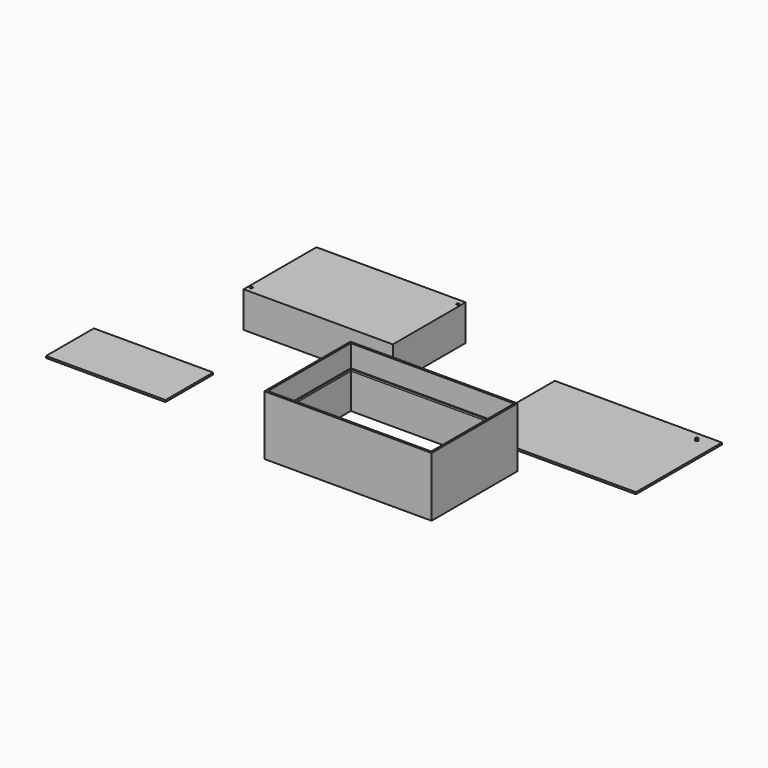
from build123d import *

# Parameters (mm, degrees)
F1_DEPTH  = 19.05
F2_R      = 1.5
F3_DEPTH  = 4
F2_W      = 177.8
F2_H      = 114.3
F4_DEPTH  = 2
F6_W      = 177.8
F6_H      = 114.3
F6_W_2    = 173.8
F6_H_2    = 110.3
F7_DEPTH  = 63.5
F10_W     = 173.8
F10_H     = 2
F12_DEPTH = 1
F11_W     = 110.3
F11_H     = 2
F13_DEPTH = 1
F9_W      = 110.3
F9_H      = 2
F14_DEPTH = 1
F8_W      = 173.8
F8_H      = 2
F15_DEPTH = 1
F5_W      = 127
F5_H      = 63.5
F16_DEPTH = 2


with BuildPart() as f1:
    # F0 (on Top) → F1 (new body, symmetric)
    with BuildSketch(Plane.XY):
        with BuildLine():
            Line((-79.375, -48.41875), (79.375, -48.41875))
            Line((79.375, -48.41875), (79.375, 40.41875))
            Line((79.375, 40.41875), (73.375, 40.41875))
            Line((73.375, 40.41875), (73.375, 43.41875))
            Line((73.375, 43.41875), (76.1563882031, 43.41875))
            ThreePointArc((76.1563882031, 43.41875), (76.375, 43.4347658753), (76.5936117969, 43.41875))
            Line((76.5936117969, 43.41875), (79.375, 43.41875))
            Line((79.375, 43.41875), (79.375, 48.41875))
            Line((79.375, 48.41875), (-79.375, 48.41875))
            Line((-79.375, 48.41875), (-79.375, -40.41875))
            Line((-79.375, -40.41875), (-76.375, -40.41875))
            Line((-76.375, -40.41875), (-73.375, -40.41875))
            Line((-73.375, -40.41875), (-73.375, -43.41875))
            Line((-73.375, -43.41875), (-76.375, -43.41875))
            Line((-76.375, -43.41875), (-79.375, -43.41875))
            Line((-79.375, -43.41875), (-79.375, -48.41875))
        make_face()
        with BuildLine():
            ThreePointArc((-74.875, -41.91875), (-75.3143398282, -42.9794101718), (-76.375, -43.41875))
            Line((-76.375, -43.41875), (-73.375, -43.41875))
            Line((-73.375, -43.41875), (-73.375, -40.41875))
            Line((-73.375, -40.41875), (-76.375, -40.41875))
            ThreePointArc((-76.375, -40.41875), (-75.3143398282, -40.8580898282), (-74.875, -41.91875))
        make_face()
        with BuildLine():
            Line((-79.375, -40.41875), (-79.375, -43.41875))
            Line((-79.375, -43.41875), (-76.375, -43.41875))
            ThreePointArc((-76.375, -43.41875), (-77.875, -41.91875), (-76.375, -40.41875))
            Line((-76.375, -40.41875), (-79.375, -40.41875))
        make_face()
        with BuildLine():
            Line((73.375, 40.41875), (79.375, 40.41875))
            Line((79.375, 40.41875), (79.375, 43.41875))
            Line((79.375, 43.41875), (76.5936117969, 43.41875))
            ThreePointArc((76.5936117969, 43.41875), (77.5103232349, 42.9150929393), (77.875, 41.9347658753))
            ThreePointArc((77.875, 41.9347658753), (75.3946729361, 40.7994426404), (76.1563882031, 43.41875))
            Line((76.1563882031, 43.41875), (73.375, 43.41875))
            Line((73.375, 43.41875), (73.375, 40.41875))
        make_face()
    extrude(amount=F1_DEPTH, both=True)


with BuildPart() as f3:
    # F2 (on Top) → F3 (new body)
    with BuildSketch(Plane.XY):
        with Locations((211.9104366302, -84)):
            Circle(F2_R)
    extrude(amount=F3_DEPTH)


with BuildPart() as f3b:
    # F2 (on Top) → F3, piece 2 (new body)
    with BuildSketch(Plane.XY):
        with Locations((363.9104366302, 0)):
            Circle(F2_R)
    extrude(amount=F3_DEPTH)


with BuildPart() as f4:
    # F2 (on Top) → F4 (new body)
    with BuildSketch(Plane.XY):
        with Locations((293.8104366302, -47.15)):
            Rectangle(F2_W, F2_H)
        with Locations((211.9104366302, -84)):
            Circle(F2_R, mode=Mode.SUBTRACT)
        with Locations((363.9104366302, 0)):
            Circle(F2_R, mode=Mode.SUBTRACT)
    extrude(amount=F4_DEPTH)


with BuildPart() as f7:
    # F6 (on Top) → F7 (new body)
    with BuildSketch(Plane.XY):
        with Locations((190.9857392311, -190.4046696647)):
            Rectangle(F6_W, F6_H)
        with Locations((190.9857392311, -190.4046696647)):
            Rectangle(F6_W_2, F6_H_2, mode=Mode.SUBTRACT)
    extrude(amount=F7_DEPTH)

    # F10 (on face) → F12 (join)
    with BuildSketch(Plane.XZ.offset(135.2546696647)):
        with Locations((190.9857392311, 39.1)):
            Rectangle(F10_W, F10_H)
    extrude(amount=F12_DEPTH)

    # F11 (on face) → F13 (join)
    with BuildSketch(Plane(origin=(277.8857392311, 0, 0), x_dir=(0, -1, 0), z_dir=(-1, 0, 0))):
        with Locations((190.4046696647, 39.1)):
            Rectangle(F11_W, F11_H)
    extrude(amount=F13_DEPTH)

    # F9 (on face) → F14 (join)
    with BuildSketch(Plane.YZ.offset(104.0857392311)):
        with Locations((-190.4046696647, 39.1)):
            Rectangle(F9_W, F9_H)
    extrude(amount=F14_DEPTH)

    # F8 (on face) → F15 (join)
    with BuildSketch(Plane(origin=(0, -245.5546696647, 0), x_dir=(-1, 0, 0), z_dir=(0, 1, 0))):
        with Locations((-190.9857392311, 39.1)):
            Rectangle(F8_W, F8_H)
    extrude(amount=F15_DEPTH)


with BuildPart() as f16:
    # F5 (on Top) → F16 (new body)
    with BuildSketch(Plane.XY):
        with Locations((-89.5311820786, -187.2475810379)):
            Rectangle(F5_W, F5_H)
    extrude(amount=F16_DEPTH)


solid = Compound([f1.part, f3.part, f3b.part, f4.part, f7.part, f16.part])
